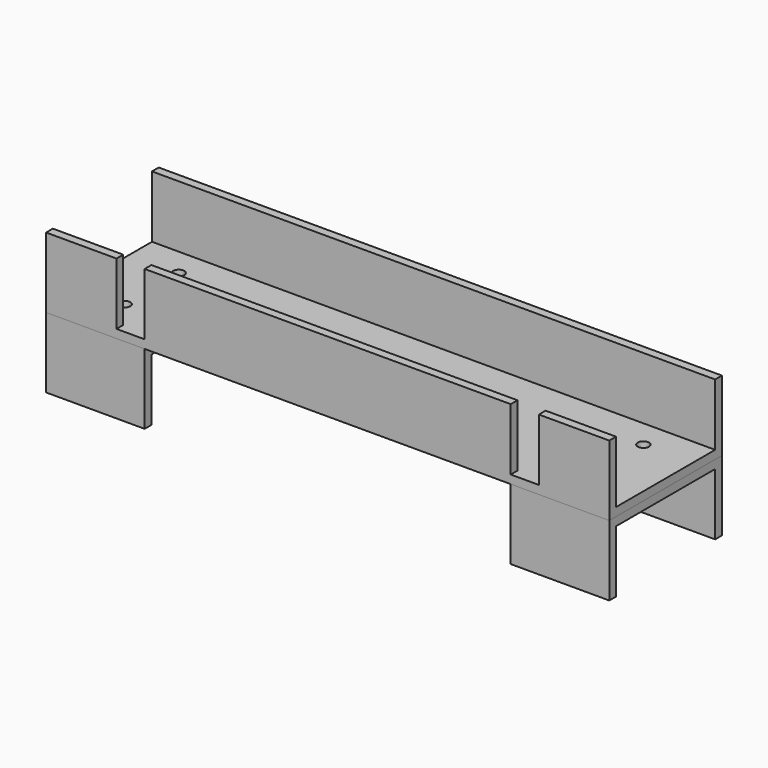
from build123d import *

# Parameters (mm, degrees)
F0_W      = 200
F0_H      = 25
F1_DEPTH  = 50
F3_DEPTH  = 200.001
F4_W      = 10
F4_H      = 22
F5_DEPTH  = 47
F6_W      = 35
F6_H      = 50
F7_DEPTH  = 25
F9_DEPTH  = 200.001
F11_R     = 2
F12_DEPTH = 28.001


with BuildPart() as f1:
    # F0 (on Front) → F1 (new body)
    with BuildSketch(Plane.XZ):
        Rectangle(F0_W, F0_H)
    extrude(amount=F1_DEPTH)

    # F2 (on face) → F3 (cut, through all)
    with BuildSketch(Plane.YZ.offset(100)):
        Polygon((-3, 12.5), (-47, 12.5), (-47, 4.398307), (-47, -9.5), (-23.419829, -9.5), (-3, -9.5), (-3, 6.889603), align=None)
    extrude(amount=-F3_DEPTH, mode=Mode.SUBTRACT)

    # F4 (on face) → F5 (cut, through all)
    with BuildSketch(Plane.XZ.offset(50)):
        with Locations((-70, 1.5)):
            Rectangle(F4_W, F4_H)
        with Locations((70, 1.5)):
            Rectangle(F4_W, F4_H)
    extrude(amount=-F5_DEPTH, mode=Mode.SUBTRACT)


with BuildPart() as f7:
    # F6 (on face) → F7 (new body)
    with BuildSketch(Plane(origin=(0, 0, -12.5), x_dir=(1, 0, 0), z_dir=(0, 0, -1))):
        with Locations((-82.5, 25)):
            Rectangle(F6_W, F6_H)
    extrude(amount=F7_DEPTH)

    # F8 (on face) → F9 (cut, through all)
    with BuildSketch(Plane(origin=(-100, 0, 0), x_dir=(0, -1, 0), z_dir=(-1, 0, 0))):
        Polygon((3, -25.254963), (3, -37.5), (47, -37.5), (47, -24.68876), (47, -15.5), (22.2564, -15.5), (3, -15.5), align=None)
    extrude(amount=-F9_DEPTH, mode=Mode.SUBTRACT)


with BuildPart() as f10_1:
    # F10: instance of F7
    add(f7.part.mirror(Plane.YZ))


with BuildPart() as f12_tool:
    # F11 (on face) → F12 (new body, through all)
    with BuildSketch(Plane(origin=(0, 0, -15.5), x_dir=(1, 0, 0), z_dir=(0, 0, -1))):
        with Locations((-82.5, 37)):
            Circle(F11_R)
        with Locations((-82.5, 13)):
            Circle(F11_R)
        with Locations((82.5, 13)):
            Circle(F11_R)
        with Locations((82.5, 37)):
            Circle(F11_R)
    extrude(amount=-F12_DEPTH)


with BuildPart() as f1_1:
    add(f1.part)

    # F12: cut by f12_tool
    add(f12_tool.part, mode=Mode.SUBTRACT)


with BuildPart() as f7_1:
    add(f7.part)

    # F12: cut by f12_tool
    add(f12_tool.part, mode=Mode.SUBTRACT)


with BuildPart() as f10_1_1:
    add(f10_1.part)

    # F12: cut by f12_tool
    add(f12_tool.part, mode=Mode.SUBTRACT)


solid = Compound([f1_1.part, f7_1.part, f10_1_1.part])
